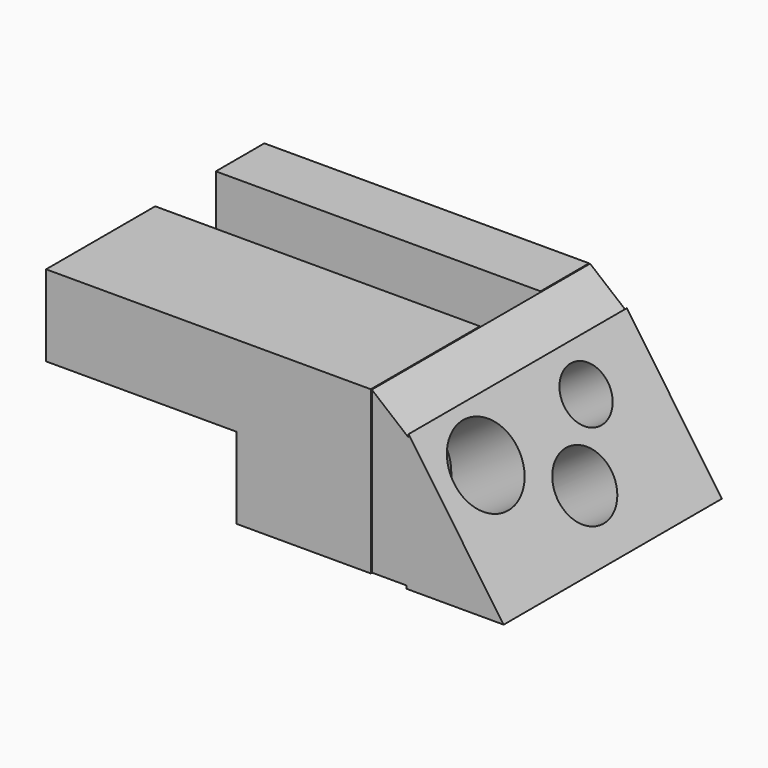
from build123d import *

# Parameters (mm, degrees)
F0_W      = 90.6968638301
F0_H      = 45.2968254685
F1_DEPTH  = 76.2
F2_W      = 90.6968638301
F2_H      = 21.1606169999
F3_DEPTH  = 25.4
F5_DEPTH  = 76.2
F7_DEPTH  = 76.2
F8_W      = 53.1990528107
F8_H      = 22.6484127343
F9_DEPTH  = 76.2
F10_R     = 11.0525530921
F11_DEPTH = 25.4
F12_R     = 7.5654694939
F13_DEPTH = 25.4
F14_R     = 9.2493841875
F15_DEPTH = 25.4


with BuildPart() as f1:
    # F0 (on Front) → F1 (new body)
    with BuildSketch(Plane.XZ):
        with Locations((-7.8506208956, -22.6484127343)):
            Rectangle(F0_W, F0_H)
    extrude(amount=F1_DEPTH)

    # F2 (on face) → F3 (cut)
    with BuildSketch(Plane.XY):
        with Locations((-7.8506208956, -27.5196915001)):
            Rectangle(F2_W, F2_H)
    extrude(amount=-F3_DEPTH, mode=Mode.SUBTRACT)

    # F8 (on face) → F9 (cut)
    with BuildSketch(Plane.XZ.offset(76.2)):
        with Locations((-26.5995264053, -33.9726191014)):
            Rectangle(F8_W, F8_H)
    extrude(amount=-F9_DEPTH, mode=Mode.SUBTRACT)


with BuildPart() as f5:
    # F4 (on Front) → F5 (new body)
    with BuildSketch(Plane.XZ):
        Polygon((37.7901904285, 0), (37.7901904285, -44.9928082526), (48.0336844921, -44.9928082526), (48.0336844921, -8.4484461695), align=None)
    extrude(amount=F5_DEPTH)

    # F6 (on Front) → F7 (join)
    with BuildSketch(Plane.XZ):
        Polygon((74.611403048, -45.8233617246), (48.0336844921, -7.6178922318), (47.4799796939, -45.8233617246), align=None)
    extrude(amount=F7_DEPTH)

    # F10 (on face) → F11 (cut)
    with BuildSketch(Plane(origin=(28.7980055124, 0, 20.0333956274), x_dir=(0, 1, 0), z_dir=(0.8209051953, 0, 0.5710644976))):
        with Locations((-59.4775974751, -48.0213984847)):
            Circle(F10_R)
    extrude(amount=-F11_DEPTH, mode=Mode.SUBTRACT)

    # F12 (on face) → F13 (cut)
    with BuildSketch(Plane(origin=(28.7980055124, 0, 20.0333956274), x_dir=(0, 1, 0), z_dir=(0.8209051953, 0, 0.5710644976))):
        with Locations((-22.6925052702, -45.5568544567)):
            Circle(F12_R)
    extrude(amount=-F13_DEPTH, mode=Mode.SUBTRACT)

    # F14 (on face) → F15 (cut)
    with BuildSketch(Plane(origin=(28.7980055124, 0, 20.0333956274), x_dir=(0, 1, 0), z_dir=(0.8209051953, 0, 0.5710644976))):
        with Locations((-35.4025401175, -62.7474635839)):
            Circle(F14_R)
    extrude(amount=-F15_DEPTH, mode=Mode.SUBTRACT)


solid = Compound([f1.part, f5.part])
